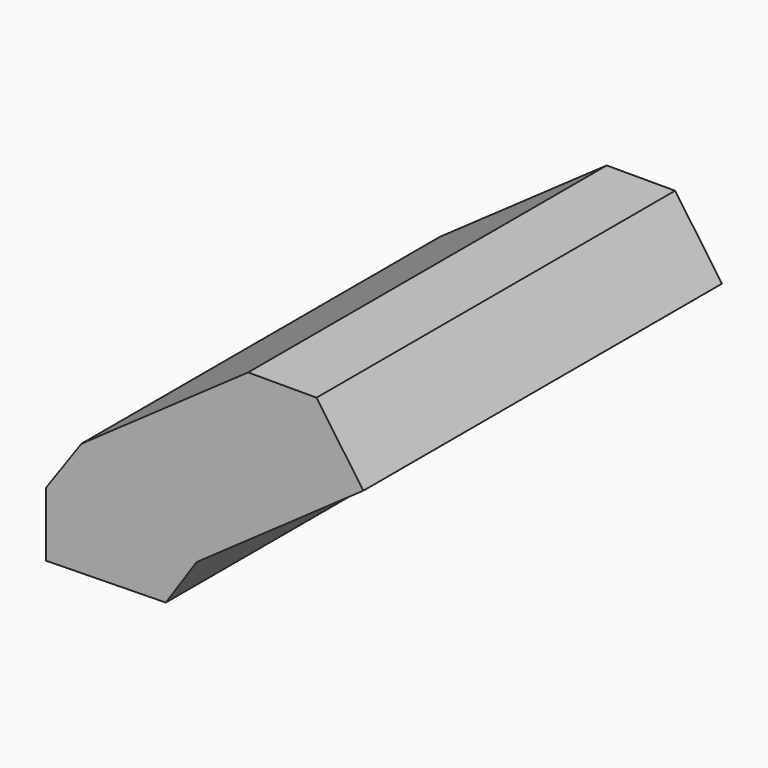
from build123d import *

# Parameters (mm, degrees)
F1_DEPTH = 161.544
F2_DEPTH = 73.406


with BuildPart() as f1:
    # F0 (on Front) → F1 (new body)
    with BuildSketch(Plane.XZ):
        Polygon((-26.1052288115, 0), (17.0428129498, 0.7523252768), (28.1549018044, 17.2312418461), (11.2879504202, 41.2635945552), (-13.3710414004, 41.2635945552), (-26.1052288115, 23.2041552663), align=None)
    extrude(amount=F1_DEPTH)

    # F2 (add): faces of the model
    f2_faces = [f1.faces().sort_by_distance(p)[0] for p in [
        (19.7214261123, -80.772, 29.2474182006),
        (-1.0415454901, -80.772, 41.2635945552),
    ]]
    extrude(f2_faces, amount=F2_DEPTH, dir=(0.8185223802, 0, 0.574474641))


solid = f1.part
